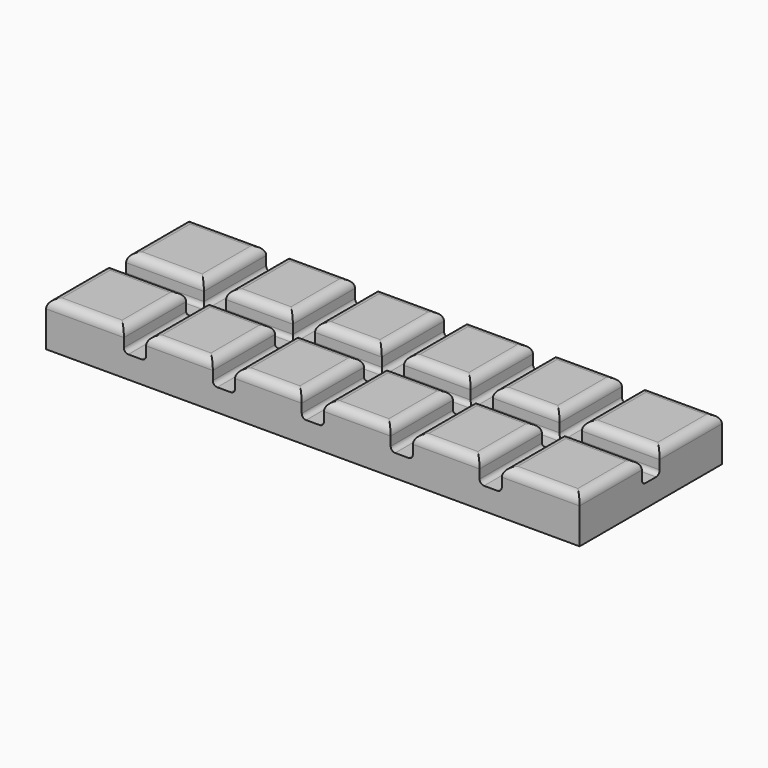
from build123d import *

# Parameters (mm, degrees)
F0_W     = 152.4
F0_H     = 50.8
F1_DEPTH = 12.7
F2_W     = 6.35
F2_H     = 12.7
F3_DEPTH = 152.401
F4_W     = 6.35
F4_H     = 12.7
F5_DEPTH = 50.801
F6_R     = 2.54
F7_R     = 1.27


with BuildPart() as f1:
    # F0 (on Top) → F1 (new body)
    with BuildSketch(Plane.XY):
        Rectangle(F0_W, F0_H)
    extrude(amount=F1_DEPTH)

    # F2 (on face) → F3 (cut, through all)
    with BuildSketch(Plane.YZ.offset(76.2)):
        with Locations((0, 12.7)):
            Rectangle(F2_W, F2_H)
    extrude(amount=-F3_DEPTH, mode=Mode.SUBTRACT)

    # F4 (on face) → F5 (cut, through all)
    with BuildSketch(Plane.XZ.offset(25.4)):
        with Locations((0, 12.7)):
            Rectangle(F4_W, F4_H)
        with Locations((25.4, 12.7)):
            Rectangle(F4_W, F4_H)
        with Locations((50.8, 12.7)):
            Rectangle(F4_W, F4_H)
        with Locations((-25.4, 12.7)):
            Rectangle(F4_W, F4_H)
        with Locations((-50.8, 12.7)):
            Rectangle(F4_W, F4_H)
    extrude(amount=-F5_DEPTH, mode=Mode.SUBTRACT)

    # F6
    f6_edges = [f1.edges().sort_by_distance(p)[0] for p in [
        (-65.0875, -25.4, 12.7),
        (-76.2, -14.2875, 12.7),
        (-65.0875, -3.175, 12.7),
        (-53.975, -14.2875, 12.7),
        (-38.1, -25.4, 12.7),
        (-47.625, -14.2875, 12.7),
        (-38.1, -3.175, 12.7),
        (-28.575, -14.2875, 12.7),
        (-12.7, -25.4, 12.7),
        (-22.225, -14.2875, 12.7),
        (-12.7, -3.175, 12.7),
        (-3.175, -14.2875, 12.7),
        (12.7, -25.4, 12.7),
        (3.175, -14.2875, 12.7),
        (12.7, -3.175, 12.7),
        (22.225, -14.2875, 12.7),
        (38.1, -25.4, 12.7),
        (28.575, -14.2875, 12.7),
        (38.1, -3.175, 12.7),
        (47.625, -14.2875, 12.7),
        (65.0875, -25.4, 12.7),
        (53.975, -14.2875, 12.7),
        (65.0875, -3.175, 12.7),
        (76.2, -14.2875, 12.7),
        (65.0875, 3.175, 12.7),
        (53.975, 14.2875, 12.7),
        (65.0875, 25.4, 12.7),
        (76.2, 14.2875, 12.7),
        (38.1, 3.175, 12.7),
        (28.575, 14.2875, 12.7),
        (38.1, 25.4, 12.7),
        (47.625, 14.2875, 12.7),
        (12.7, 3.175, 12.7),
        (3.175, 14.2875, 12.7),
        (12.7, 25.4, 12.7),
        (22.225, 14.2875, 12.7),
        (-38.1, 3.175, 12.7),
        (-47.625, 14.2875, 12.7),
        (-38.1, 25.4, 12.7),
        (-28.575, 14.2875, 12.7),
        (-12.7, 3.175, 12.7),
        (-22.225, 14.2875, 12.7),
        (-12.7, 25.4, 12.7),
        (-3.175, 14.2875, 12.7),
        (-65.0875, 3.175, 12.7),
        (-76.2, 14.2875, 12.7),
        (-65.0875, 25.4, 12.7),
        (-53.975, 14.2875, 12.7),
    ]]
    fillet(f6_edges, radius=F6_R)

    # F7
    f7_edges = [f1.edges().sort_by_distance(p)[0] for p in [
        (-47.625, 14.2875, 6.35),
        (-53.975, 14.2875, 6.35),
        (-53.975, -14.2875, 6.35),
        (-47.625, -14.2875, 6.35),
        (-22.225, -14.2875, 6.35),
        (-28.575, -14.2875, 6.35),
        (-28.575, 14.2875, 6.35),
        (-22.225, 14.2875, 6.35),
        (3.175, -14.2875, 6.35),
        (3.175, 14.2875, 6.35),
        (-3.175, 14.2875, 6.35),
        (-3.175, -14.2875, 6.35),
        (22.225, 14.2875, 6.35),
        (22.225, -14.2875, 6.35),
        (28.575, -14.2875, 6.35),
        (28.575, 14.2875, 6.35),
        (47.625, 14.2875, 6.35),
        (47.625, -14.2875, 6.35),
        (53.975, 14.2875, 6.35),
        (53.975, -14.2875, 6.35),
        (65.0875, -3.175, 6.35),
        (38.1, -3.175, 6.35),
        (12.7, -3.175, 6.35),
        (-12.7, -3.175, 6.35),
        (-38.1, -3.175, 6.35),
        (-65.0875, -3.175, 6.35),
        (-65.0875, 3.175, 6.35),
        (-12.7, 3.175, 6.35),
        (-38.1, 3.175, 6.35),
        (12.7, 3.175, 6.35),
        (38.1, 3.175, 6.35),
        (65.0875, 3.175, 6.35),
    ]]
    fillet(f7_edges, radius=F7_R)


solid = f1.part
